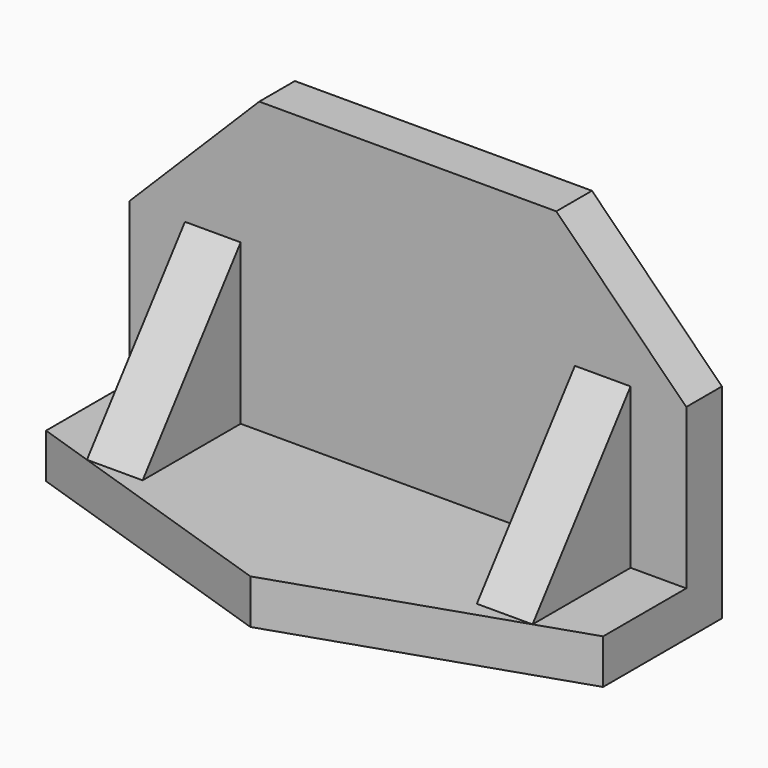
from build123d import *

# Parameters (mm, degrees)
F1_DEPTH      = 12
F2_W          = 150
F2_H          = 12
F3_DEPTH      = 90
F4_SIZE2      = 35
F4_SIZE       = 35
F5_W          = 15
F5_H          = 33
F6_DEPTH      = 55
F8_DEPTH      = 60
F8_DEPTH_BACK = 60


with BuildPart() as f1:
    # F0 (on Top) → F1 (new body)
    with BuildSketch(Plane.XY):
        Polygon((75, 20.5), (-75, 20.5), (-75, -7.5), (0, -32.5), (75, -7.5), align=None)
    extrude(amount=F1_DEPTH)

    # F2 (on Top) → F3 (join)
    with BuildSketch(Plane.XY):
        with Locations((0, 26.5)):
            Rectangle(F2_W, F2_H)
    extrude(amount=F3_DEPTH)

    # F4
    f4_edges = [f1.edges().sort_by_distance(p)[0] for p in [
        (-75, 26.5, 90),
        (75, 26.5, 90),
    ]]
    chamfer(f4_edges, length=F4_SIZE, length2=F4_SIZE2)

    # F5 (on Top) → F6 (join)
    with BuildSketch(Plane.XY):
        with Locations((-52.5, 4)):
            Rectangle(F5_W, F5_H)
        with Locations((52.5, 4)):
            Rectangle(F5_W, F5_H)
    extrude(amount=F6_DEPTH)

    # F7 (on Right) → F8 (cut, two sides)
    with BuildSketch(Plane.YZ) as f8_sk:
        Polygon((-12.5, 12), (20.5, 55), (-12.5, 55), align=None)
    extrude(amount=-F8_DEPTH, mode=Mode.SUBTRACT)
    extrude(f8_sk.sketch, amount=F8_DEPTH_BACK, mode=Mode.SUBTRACT)


solid = f1.part
